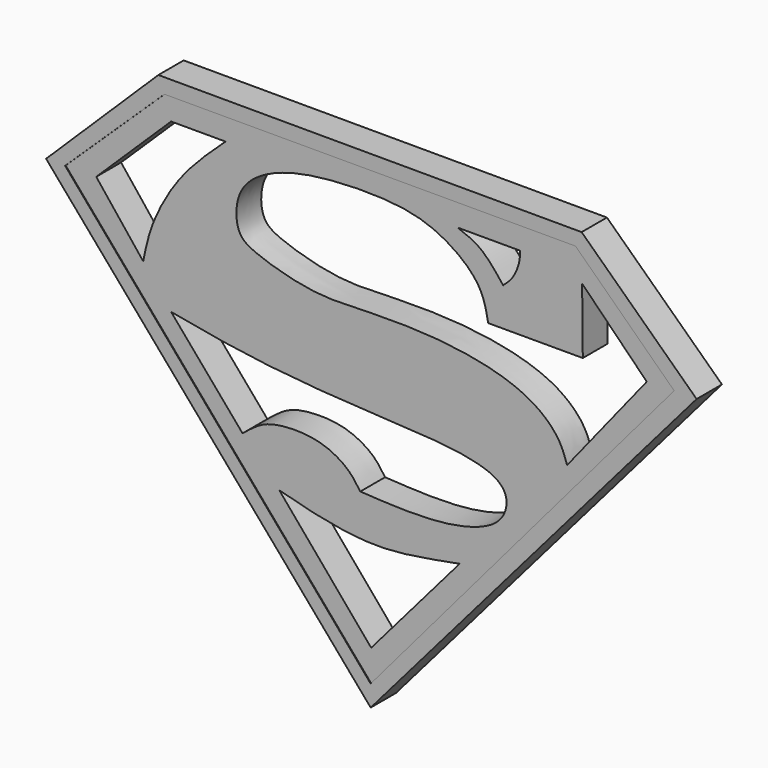
from build123d import *

# Parameters (mm, degrees)
F1_DEPTH = 5
F2_DEPTH = 4.9


with BuildPart() as f1:
    # F0 (on Front) → F1 (new body)
    with BuildSketch(Plane.XZ):
        with BuildLine():
            add(Edge.make_bspline(
                [(-87.6534432173, 79.1329368949), (-65.3528086841, 79.0970822175), (-43.0521741509, 79.0612275402), (-20.7515396178, 79.0253728628)],
                knots=[0, 0, 0, 0, 66.9019900695, 66.9019900695, 66.9019900695, 66.9019900695], degree=3))
            add(Edge.make_bspline(
                [(-87.6534432173, 79.1329368949), (-93.5692066948, 73.3247324824), (-99.4849701722, 67.51652807), (-105.4007336497, 61.7083236575)],
                knots=[0, 0, 0, 0, 24.8713382062, 24.8713382062, 24.8713382062, 24.8713382062], degree=3))
            add(Edge.make_bspline(
                [(-105.4007336497, 61.7083236575), (-88.2988000909, 41.8098474232), (-71.1968665322, 21.9113711889), (-54.0949329734, 2.0128949545)],
                knots=[0, 0, 0, 0, 78.7135908917, 78.7135908917, 78.7135908917, 78.7135908917], degree=3))
            add(Edge.make_bspline(
                [(-54.0949329734, 2.0128949545), (-36.9212933971, 21.9113711889), (-19.7476538209, 41.8098474232), (-2.5740142446, 61.7083236575)],
                knots=[0, 0, 0, 0, 78.8539743747, 78.8539743747, 78.8539743747, 78.8539743747], degree=3))
            add(Edge.make_bspline(
                [(-20.7515396178, 79.0253728628), (-14.6923644934, 73.2530231277), (-8.633189369, 67.4806733926), (-2.5740142446, 61.7083236575)],
                knots=[0, 0, 0, 0, 25.1058284442, 25.1058284442, 25.1058284442, 25.1058284442], degree=3))
        make_face()
        with BuildLine():
            add(Edge.make_bspline(
                [(-54.0949329734, 5.3472351283), (-70.1929802696, 24.134264638), (-86.2910275658, 42.9212941478), (-102.389074862, 61.7083236575)],
                knots=[0, 0, 0, 0, 74.2219404284, 74.2219404284, 74.2219404284, 74.2219404284], degree=3))
            add(Edge.make_bspline(
                [(-102.389074862, 61.7083236575), (-97.154520452, 66.7277599374), (-91.919966042, 71.7471962174), (-86.6854116321, 76.7666324973)],
                knots=[0, 0, 0, 0, 21.7567852394, 21.7567852394, 21.7567852394, 21.7567852394], degree=3))
            add(Edge.make_bspline(
                [(-86.6854116321, 76.7666324973), (-65.0301327308, 76.7666324973), (-43.3748538295, 76.7666324973), (-21.7195749283, 76.7666324973)],
                knots=[0, 0, 0, 0, 64.9658367038, 64.9658367038, 64.9658367038, 64.9658367038], degree=3))
            add(Edge.make_bspline(
                [(-21.7195749283, 76.7666324973), (-16.5208741091, 71.7471962174), (-11.32217329, 66.7277599374), (-6.1234724708, 61.7083236575)],
                knots=[0, 0, 0, 0, 21.6792775936, 21.6792775936, 21.6792775936, 21.6792775936], degree=3))
            add(Edge.make_bspline(
                [(-6.1234724708, 61.7083236575), (-22.113959305, 42.9212941478), (-38.1044461392, 24.134264638), (-54.0949329734, 5.3472351283)],
                knots=[0, 0, 0, 0, 74.0123862806, 74.0123862806, 74.0123862806, 74.0123862806], degree=3))
        make_face(mode=Mode.SUBTRACT)
    extrude(amount=F1_DEPTH)

    # F0 (on Front) → F2 (join)
    with BuildSketch(Plane.XZ):
        with BuildLine():
            add(Edge.make_bspline(
                [(-102.389074862, 61.7083236575), (-97.154520452, 66.7277599374), (-91.919966042, 71.7471962174), (-86.6854116321, 76.7666324973)],
                knots=[0, 0, 0, 0, 21.7567852394, 21.7567852394, 21.7567852394, 21.7567852394], degree=3))
            add(Edge.make_bspline(
                [(-54.0949329734, 5.3472351283), (-70.1929802696, 24.134264638), (-86.2910275658, 42.9212941478), (-102.389074862, 61.7083236575)],
                knots=[0, 0, 0, 0, 74.2219404284, 74.2219404284, 74.2219404284, 74.2219404284], degree=3))
            add(Edge.make_bspline(
                [(-6.1234724708, 61.7083236575), (-22.113959305, 42.9212941478), (-38.1044461392, 24.134264638), (-54.0949329734, 5.3472351283)],
                knots=[0, 0, 0, 0, 74.0123862806, 74.0123862806, 74.0123862806, 74.0123862806], degree=3))
            add(Edge.make_bspline(
                [(-21.7195749283, 76.7666324973), (-16.5208741091, 71.7471962174), (-11.32217329, 66.7277599374), (-6.1234724708, 61.7083236575)],
                knots=[0, 0, 0, 0, 21.6792775936, 21.6792775936, 21.6792775936, 21.6792775936], degree=3))
            add(Edge.make_bspline(
                [(-86.6854116321, 76.7666324973), (-65.0301327308, 76.7666324973), (-43.3748538295, 76.7666324973), (-21.7195749283, 76.7666324973)],
                knots=[0, 0, 0, 0, 64.9658367038, 64.9658367038, 64.9658367038, 64.9658367038], degree=3))
        make_face()
        with BuildLine():
            add(Edge.make_bspline(
                [(-68.6154440045, 27.5044571608), (-63.7752736608, 21.7679596196), (-58.9351033171, 16.0314620783), (-54.0949329734, 10.294964537)],
                knots=[0, 0, 0, 0, 22.5169242343, 22.5169242343, 22.5169242343, 22.5169242343], degree=3))
            add(Edge.make_bspline(
                [(-68.6154440045, 27.5044571608), (-66.9204352107, 27.0393875886), (-63.0732141953, 25.9838028397), (-54.0699118944, 24.3518234332), (-46.2354388695, 25.378983687), (-42.0607886395, 26.168094676), (-40.1122197509, 26.5364218503)],
                knots=[0, 0, 0, 0, 0.2223667789, 0.5047136912, 0.7688190773, 1, 1, 1, 1], degree=3))
            add(Edge.make_bspline(
                [(-54.0949329734, 10.294964537), (-49.4340285659, 15.7087836415), (-44.7731241584, 21.1226027459), (-40.1122197509, 26.5364218503)],
                knots=[0, 0, 0, 0, 21.431313649, 21.431313649, 21.431313649, 21.431313649], degree=3))
        make_face(mode=Mode.SUBTRACT)
        with BuildLine():
            add(Edge.make_bspline(
                [(-85.7173725963, 46.7575751245), (-81.9527978698, 42.3476435244), (-78.1882231434, 37.9377119243), (-74.423648417, 33.5277803242)],
                knots=[0, 0, 0, 0, 17.3947025354, 17.3947025354, 17.3947025354, 17.3947025354], degree=3))
            add(Edge.make_bspline(
                [(-85.7173725963, 46.7575751245), (-81.5822510897, 45.9860629721), (-72.7106033507, 44.3308313104), (-56.0333389122, 42.9834630281), (-41.7328710862, 42.5207903504), (-35.4075209423, 41.0644433774), (-33.208654842, 39.4921679765), (-32.3768473013, 37.4415930773), (-33.7228963808, 33.4619358794), (-42.6932632376, 30.7215265449), (-51.1162181461, 31.2110301192), (-55.8158829808, 31.4841531217)],
                knots=[0, 0, 0, 0, 0.1421246313, 0.3049196166, 0.4548026061, 0.5516722621, 0.6123899498, 0.6671010014, 0.7397423943, 0.8547868853, 1, 1, 1, 1], degree=3))
            add(Edge.make_bspline(
                [(-55.8158829808, 31.4841531217), (-56.3963131215, 32.3332130137), (-57.6910143799, 34.2271169195), (-62.1008430935, 36.6362643433), (-67.398185958, 36.8149958699), (-71.3072053265, 36.0943855617), (-73.3814159508, 34.386130446), (-74.423648417, 33.5277803242)],
                knots=[0, 0, 0, 0, 0.1748478019, 0.3900136352, 0.6144700206, 0.806282035, 1, 1, 1, 1], degree=3))
        make_face(mode=Mode.SUBTRACT)
        with BuildLine():
            add(Edge.make_bspline(
                [(-97.5489020348, 61.7083236575), (-95.0750360886, 58.5891033212), (-92.6011701425, 55.469882985), (-90.1273041964, 52.3506626487)],
                knots=[0, 0, 0, 0, 11.9434473261, 11.9434473261, 11.9434473261, 11.9434473261], degree=3))
            add(Edge.make_bspline(
                [(-97.5489020348, 61.7083236575), (-93.6050588886, 65.5565568142), (-89.6612157424, 69.404789971), (-85.7173725963, 73.2530231277)],
                knots=[0, 0, 0, 0, 16.530734246, 16.530734246, 16.530734246, 16.530734246], degree=3))
            add(Edge.make_bspline(
                [(-85.7173725963, 73.2530231277), (-82.8491250674, 73.2530231277), (-79.9808775385, 73.2530231277), (-77.1126300097, 73.2530231277)],
                knots=[0, 0, 0, 0, 8.6047425866, 8.6047425866, 8.6047425866, 8.6047425866], degree=3))
            add(Edge.make_bspline(
                [(-77.1126300097, 73.2530231277), (-78.0753479663, 72.3661945208), (-80.2570039142, 70.3565146436), (-84.8517533585, 65.636795142), (-88.954371809, 58.2130442487), (-89.7606182407, 54.1833795405), (-90.1273041964, 52.3506626487)],
                knots=[0, 0, 0, 0, 0.2044189463, 0.4632424346, 0.7558792782, 1, 1, 1, 1], degree=3))
        make_face(mode=Mode.SUBTRACT)
        with BuildLine():
            add(Edge.make_bspline(
                [(-20.7515396178, 71.8189030886), (-20.7156868031, 68.3770043155), (-20.6798339883, 64.9351055423), (-20.6439811736, 61.4932067692)],
                knots=[0, 0, 0, 0, 10.3262564997, 10.3262564997, 10.3262564997, 10.3262564997], degree=3))
            add(Edge.make_bspline(
                [(-20.7515396178, 71.8189030886), (-17.3454949011, 68.3770043155), (-13.9394501845, 64.9351055423), (-10.5334054679, 61.4932067692)],
                knots=[0, 0, 0, 0, 14.5268809448, 14.5268809448, 14.5268809448, 14.5268809448], degree=3))
            add(Edge.make_bspline(
                [(-10.5334054679, 61.4932067692), (-14.728218317, 56.2586523592), (-18.9230311662, 51.0240979493), (-23.1178440154, 45.7895435393)],
                knots=[0, 0, 0, 0, 20.1239442554, 20.1239442554, 20.1239442554, 20.1239442554], degree=3))
            add(Edge.make_bspline(
                [(-23.1178440154, 45.7895435393), (-23.4912007309, 46.8977001209), (-24.364842717, 49.4907487433), (-29.6941491146, 54.2154135224), (-41.6572047726, 56.9340677916), (-54.3926777813, 57.0058602606), (-62.9765124353, 56.3753171723), (-72.2244229054, 59.0349585728), (-75.4857383379, 61.0678780109), (-75.5576175347, 66.4206027918), (-72.7661236211, 69.853671623), (-68.0377240644, 72.1269011195), (-61.1638616133, 73.4971855633), (-49.7848201613, 73.7059713767), (-42.6287380978, 71.5031935863), (-36.5956267283, 66.7463050935), (-35.9095647174, 63.1455905196), (-35.594727844, 61.4932067692)],
                knots=[0, 0, 0, 0, 0.0482956983, 0.1130102877, 0.2017065987, 0.2920655469, 0.3675104567, 0.4442441352, 0.4910991403, 0.5454076493, 0.5973914595, 0.6535947076, 0.721012385, 0.8058658703, 0.8757208008, 0.942967729, 1, 1, 1, 1], degree=3))
            add(Edge.make_bspline(
                [(-20.6439811736, 61.4932067692), (-25.6275633971, 61.4932067692), (-30.6111456205, 61.4932067692), (-35.594727844, 61.4932067692)],
                knots=[0, 0, 0, 0, 14.9507466704, 14.9507466704, 14.9507466704, 14.9507466704], degree=3))
        make_face(mode=Mode.SUBTRACT)
        with BuildLine():
            add(Edge.make_bspline(
                [(-33.2284234464, 67.51652807), (-32.7003690964, 67.9877648632), (-31.5674024904, 68.9988266039), (-30.5634503586, 71.5078772866), (-30.564095783, 72.773879588), (-30.5919616779, 73.2144428756)],
                knots=[0, 0, 0, 0, 0.3217669361, 0.6903668031, 0.8973652582, 0.8973652582, 0.8973652582, 0.8973652582], degree=3))
            add(Edge.make_bspline(
                [(-40.434896946, 73.2144428755), (-39.2190594467, 72.7707797373), (-36.5798263142, 71.8077148088), (-34.4026316949, 69.0200020071), (-33.2284234464, 67.51652807)],
                knots=[0, 0, 0, 0, 0.4606783252, 1, 1, 1, 1], degree=3))
            add(Edge.make_bspline(
                [(-30.5919616781, 73.2144428755), (-33.8729401007, 73.2144428755), (-37.1539185233, 73.2144428755), (-40.434896946, 73.2144428755)],
                knots=[0.0071407168, 0.0071407168, 0.0071407168, 0.0071407168, 9.8500759846, 9.8500759846, 9.8500759846, 9.8500759846], degree=3))
        make_face(mode=Mode.SUBTRACT)
    extrude(amount=F2_DEPTH)


solid = f1.part
